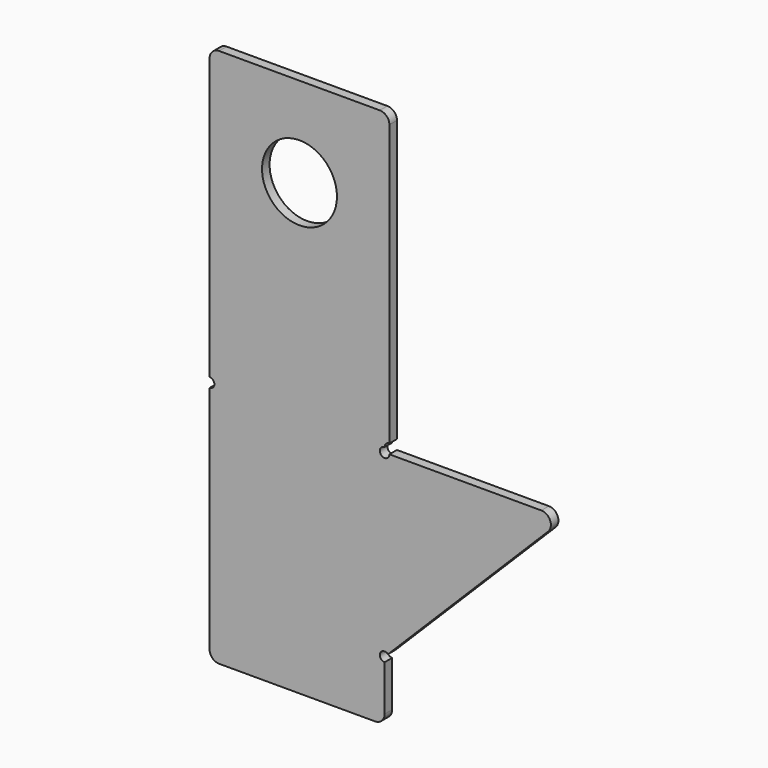
from build123d import *

# Parameters (mm, degrees)
F0_R     = 3.96875
F1_DEPTH = 1


with BuildPart() as f1:
    # F0 (on Front) → F1 (new body)
    with BuildSketch(Plane.XZ):
        with BuildLine():
            Line((8.509, 9.525), (0, 9.525))
            Line((0, 9.525), (-8.509, 9.525))
            ThreePointArc((-8.509, 9.525), (-9.22742, 9.22742), (-9.525, 8.509))
            Line((-9.525, 8.509), (-9.525, -21.209))
            ThreePointArc((-9.525, -21.209), (-9.017, -21.717), (-9.525, -22.225))
            Line((-9.525, -22.225), (-9.525, -46.609))
            ThreePointArc((-9.525, -46.609), (-9.22742, -47.32742), (-8.509, -47.625))
            Line((-8.509, -47.625), (0, -47.625))
            Line((0, -47.625), (8.001, -47.625))
            ThreePointArc((8.001, -47.625), (8.71942, -47.32742), (9.017, -46.609))
            Line((9.017, -46.609), (9.017, -41.783))
            ThreePointArc((9.017, -41.783), (8.547669, -41.080597), (9.37621, -40.91579))
            Line((9.37621, -40.91579), (26.33258, -23.95942))
            ThreePointArc((26.33258, -23.95942), (26.552821, -22.852194), (25.614159, -22.225))
            Line((25.614159, -22.225), (9.525, -22.225))
            ThreePointArc((9.525, -22.225), (8.65779, -22.58421), (9.017, -21.717))
            ThreePointArc((9.017, -21.717), (9.16579, -21.35779), (9.525, -21.209))
            Line((9.525, -21.209), (9.525, 8.509))
            ThreePointArc((9.525, 8.509), (9.22742, 9.22742), (8.509, 9.525))
        make_face()
        Circle(F0_R, mode=Mode.SUBTRACT)
    extrude(amount=F1_DEPTH)


solid = f1.part
